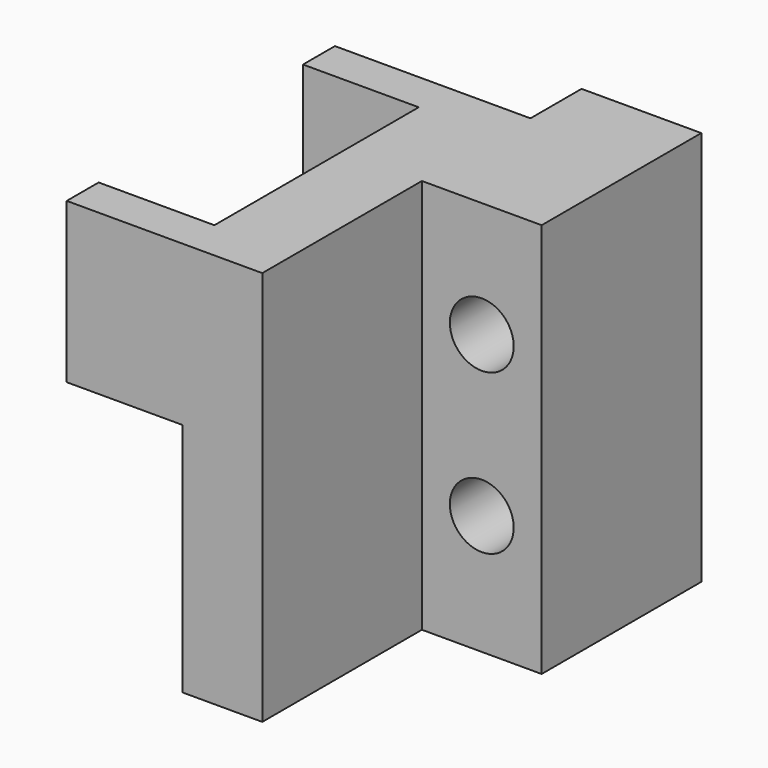
from build123d import *

# Parameters (mm, degrees)
SKETCH077_W            = 20
SKETCH077_H            = 19.8
PAD046_DEPTH           = 6
SKETCH078_R            = 1.6
POCKET032_DEPTH        = 40
SKETCH079_W            = 16.8
SKETCH079_H            = 19.8
PAD047_DEPTH           = 4
PAD048_DEPTH           = 5.8
SKETCH081_R            = 2
POCKET033_DEPTH        = 5
LINEARPATTERN002_COUNT = 3
LINEARPATTERN002_PITCH = 6.4
SKETCH082_W            = 19.8
SKETCH082_H            = 6
POCKET034_DEPTH        = 10


with BuildPart() as part:
    # Sketch077 → Pad046 (new body)
    with BuildSketch(Plane.YZ):
        with Locations((-6, 0.1)):
            Rectangle(SKETCH077_W, SKETCH077_H)
    extrude(amount=PAD046_DEPTH)

    # Sketch078 (on Face4 of Pad046) → Pocket032 (cut)
    with BuildSketch(Plane(origin=(0, -16, 0), x_dir=(0, 0, -1), z_dir=(0, -1, 0))):
        with Locations((3.8, 3)):
            Circle(SKETCH078_R)
        with Locations((-4.2, 3)):
            Circle(SKETCH078_R)
    extrude(amount=-POCKET032_DEPTH, mode=Mode.SUBTRACT)

    # Sketch079 (on Face4 of Pocket032) → Pad047 (join)
    with BuildSketch(Plane(origin=(0, 0, 0), x_dir=(0, 1, 0), z_dir=(-1, 0, 0))):
        with Locations((-7.6, -0.1)):
            Rectangle(SKETCH079_W, SKETCH079_H)
    extrude(amount=PAD047_DEPTH)

    # Sketch080 (on Face7 of Pad047) → Pad048 (join)
    with BuildSketch(Plane(origin=(-4, 0, 0), x_dir=(0, 1, 0), z_dir=(-1, 0, 0))):
        Polygon((-16, -10), (-16, -2), (0.8, -2), (0.8, -10), (-1.2, -10), (-1.2, -4), (-14, -4), (-14, -10), align=None)
    extrude(amount=PAD048_DEPTH)

    # Sketch081 (on Face13 of Pad048) → Pocket033 (cut)
    with BuildSketch(Plane(origin=(0, 0, 4), x_dir=(0, -1, 0), z_dir=(0, 0, 1))):
        with Locations((1.2, -6.9)):
            Circle(SKETCH081_R)
    pocket033 = extrude(amount=-POCKET033_DEPTH, mode=Mode.SUBTRACT)

    # LinearPattern002: Pocket033 ×3
    with Locations(*[(0, -i * LINEARPATTERN002_PITCH, 0) for i in range(1, LINEARPATTERN002_COUNT)]):
        add(pocket033, mode=Mode.SUBTRACT)

    # Sketch082 (on Face8 of LinearPattern002) → Pocket034 (cut)
    with BuildSketch(Plane(origin=(0, -16, 0), x_dir=(0, 0, -1), z_dir=(0, -1, 0))):
        with Locations((-0.1, 3)):
            Rectangle(SKETCH082_W, SKETCH082_H)
    extrude(amount=-POCKET034_DEPTH, mode=Mode.SUBTRACT)


with BuildPart() as part_1:
    # Body012 placement: moved
    add(part.part.moved(Location((26, -13, -16.3))))


solid = part_1.part
